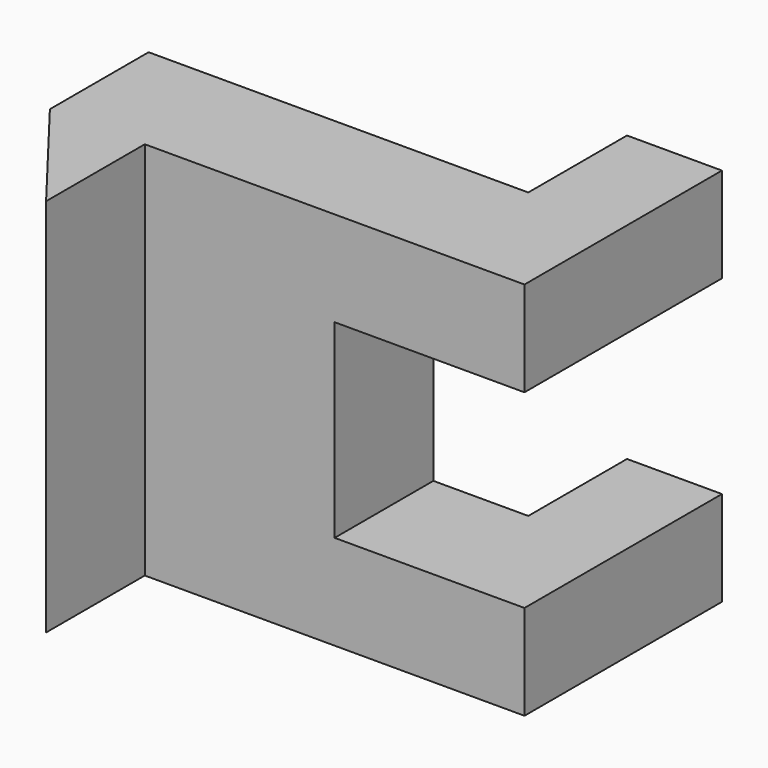
from build123d import *

# Parameters (mm, degrees)
F1_DEPTH = 20
F2_W     = 20
F2_H     = 20
F3_DEPTH = 26.001
F5_DEPTH = 40.001


with BuildPart() as f1:
    # F0 (on Top) → F1 (new body, symmetric)
    with BuildSketch(Plane.XY):
        Polygon((0, 26), (0, 0), (10, 0), (10, 13), (50, 13), (50, 39), (40, 39), (40, 26), align=None)
    extrude(amount=F1_DEPTH, both=True)

    # F2 (on face) → F3 (cut, through all)
    with BuildSketch(Plane.XZ.offset(-13)):
        with Locations((40, 0)):
            Rectangle(F2_W, F2_H)
    extrude(amount=-F3_DEPTH, mode=Mode.SUBTRACT)

    # F4 (on face) → F5 (cut, through all)
    with BuildSketch(Plane.XY.offset(20)):
        Polygon((0, 0), (10, 0), (0, 13), align=None)
    extrude(amount=-F5_DEPTH, mode=Mode.SUBTRACT)


solid = f1.part
